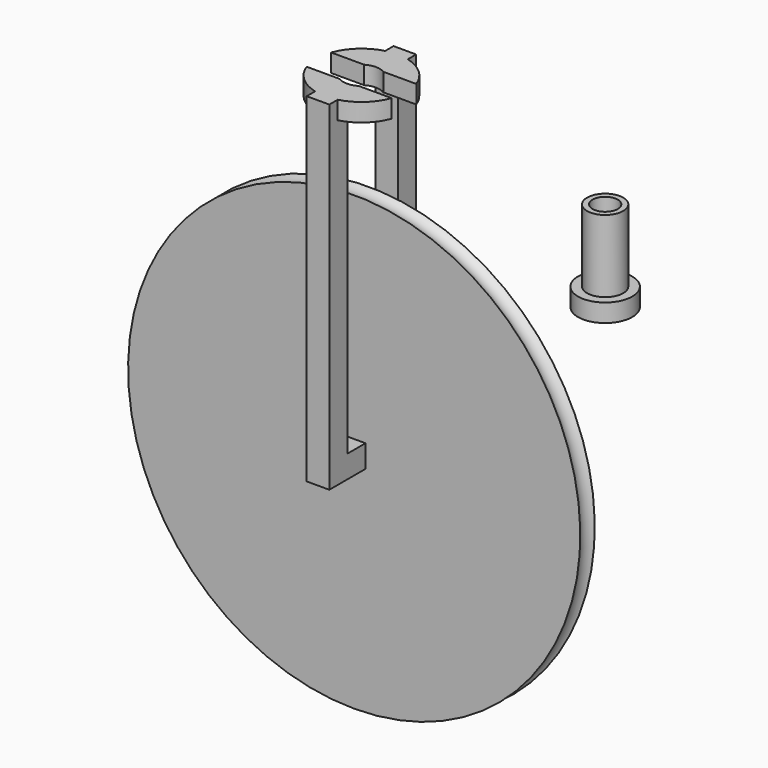
from build123d import *

# Parameters (mm, degrees)
F0_R      = 25
F1_DEPTH  = 1
F4_W      = 2.5
F4_H      = 2.5
F5_DEPTH  = 5
F6_W      = 2.5
F6_H      = 2.5
F7_DEPTH  = 35
F9_R      = 5
F9_R_2    = 2
F10_DEPTH = 2
F11_R     = 2
F12_DEPTH = 10
F11_R_2   = 3
F13_DEPTH = 2
F14_R     = 1.4
F15_DEPTH = 35.001
F16_W     = 15
F16_H     = 3.4
F17_DEPTH = 5


with BuildPart() as f1:
    # F0 (on Front) → F1 (new body, symmetric)
    with BuildSketch(Plane.XZ):
        Circle(F0_R)
    extrude(amount=F1_DEPTH, both=True)

    # F2 (on Right) → F3 (revolve, cut)
    with BuildSketch(Plane.YZ):
        with BuildLine():
            Line((-1, -25), (1, -25))
            ThreePointArc((1, -25), (0, -24.530662), (-1, -25))
        make_face()
    revolve(axis=Axis((0, -0.215719, 0), (0, -1, 0)), mode=Mode.SUBTRACT)

    # F4 (on face) → F5 (join)
    with BuildSketch(Plane(origin=(0, 1, 0), x_dir=(-1, 0, 0), z_dir=(0, 1, 0))):
        Rectangle(F4_W, F4_H)
    extrude(amount=F5_DEPTH)

    # F6 (on face) → F7 (join)
    with BuildSketch(Plane.XY.offset(1.25)):
        with Locations((0, 4.75)):
            Rectangle(F6_W, F6_H)
    extrude(amount=F7_DEPTH)

    # F8: F1 across plane


with BuildPart() as f1_1:
    add(f1.part)
    add(f1.part.mirror(Plane.XZ))

    # F9 (on face) → F10 (join)
    with BuildSketch(Plane.XY.offset(36.25)):
        Circle(F9_R)
        Circle(F9_R_2, mode=Mode.SUBTRACT)
    extrude(amount=-F10_DEPTH)

    # F16 (on face) → F17 (cut)
    with BuildSketch(Plane.XY.offset(36.25)):
        Rectangle(F16_W, F16_H)
    extrude(amount=-F17_DEPTH, mode=Mode.SUBTRACT)


with BuildPart() as f12:
    # F11 (on Top) → F12 (new body)
    with BuildSketch(Plane.XY):
        with Locations((0, 33.685902)):
            Circle(F11_R)
    extrude(amount=F12_DEPTH)

    # F11 (on Top) → F13 (join)
    with BuildSketch(Plane.XY):
        with Locations((0, 33.685902)):
            Circle(F11_R_2)
        with Locations((0, 33.685902)):
            Circle(F11_R, mode=Mode.SUBTRACT)
    extrude(amount=F13_DEPTH)

    # F14 (on face) → F15 (cut, through all)
    with BuildSketch(Plane.XY.offset(10)):
        with Locations((0, 33.685902)):
            Circle(F14_R)
    extrude(amount=-F15_DEPTH, mode=Mode.SUBTRACT)


solid = Compound([f1_1.part, f12.part])
